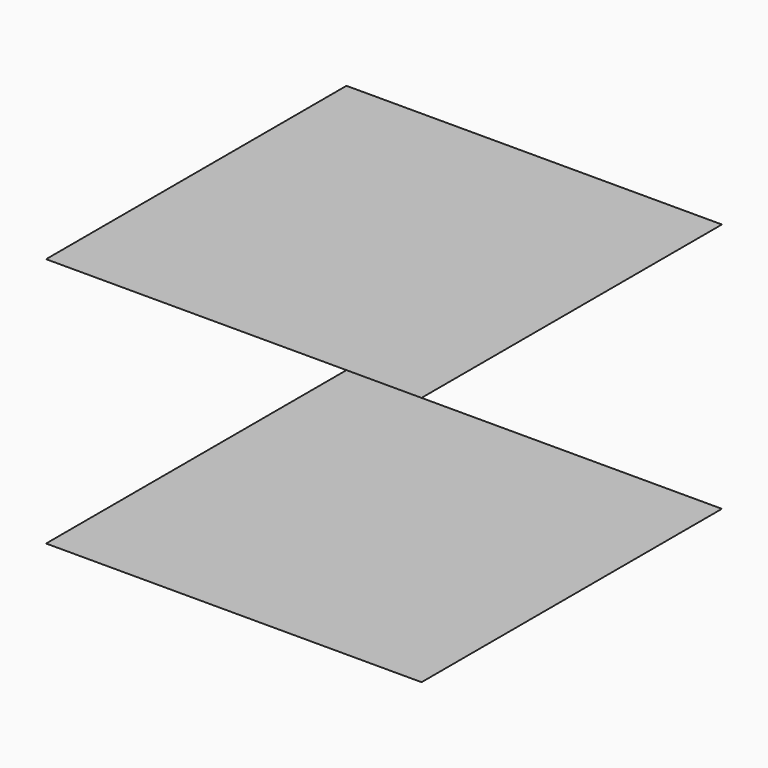
from build123d import *

# Parameters (mm, degrees)
F2_DEPTH = 76.2
F4_DEPTH = 76.201


with BuildPart() as f2:
    # F1 (on Front) → F2 (new body)
    with BuildSketch(Plane.XZ):
        Polygon((19.05, 12.7), (76.2, 50.8), (0, 50.8), (0, 12.7), align=None)
    extrude(amount=F2_DEPTH)


with BuildPart() as f2b:
    # F1 (on Front) → F2, piece 2 (new body)
    with BuildSketch(Plane.XZ):
        Polygon((0, 0), (0, -50.8), (76.2, 0), align=None)
    extrude(amount=F2_DEPTH)


with BuildPart() as f4_tool:
    # F3 (on Right) → F4 (new body, through all)
    with BuildSketch(Plane.YZ):
        Polygon((-19.05, 12.7), (-76.2, 50.8), (-76.2, 12.7), align=None)
        Polygon((-76.2, -50.8), (0, -50.8), (-76.2, 0), align=None)
    extrude(amount=F4_DEPTH)


with BuildPart() as f2_1:
    add(f2.part)

    # F4: cut by f4_tool
    add(f4_tool.part, mode=Mode.SUBTRACT)


with BuildPart() as f2b_1:
    add(f2b.part)

    # F4: cut by f4_tool
    add(f4_tool.part, mode=Mode.SUBTRACT)


solid = Compound([f2_1.part, f2b_1.part])
